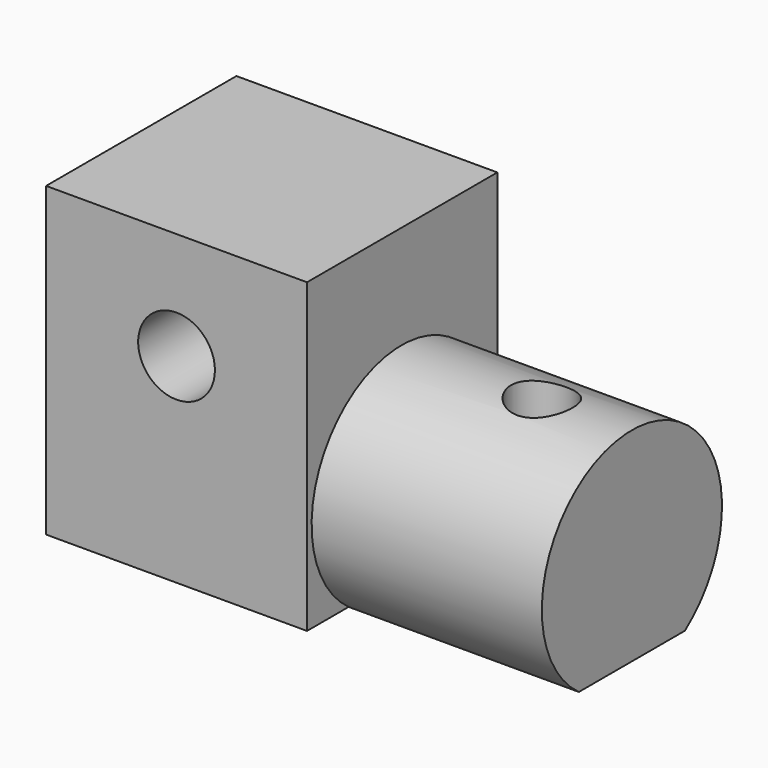
from build123d import *

# Parameters (mm, degrees)
F0_W     = 53.975
F0_H     = 63.5
F0_R     = 7.9375
F1_DEPTH = 49.2125
F3_DEPTH = 47.625
F5_D     = 12.7
F5_DEPTH = 50.8


with BuildPart() as f1:
    # F0 (on Front) → F1 (new body)
    with BuildSketch(Plane.XZ):
        Rectangle(F0_W, F0_H)
        with Locations((0, 9.525)):
            Circle(F0_R, mode=Mode.SUBTRACT)
    extrude(amount=F1_DEPTH)


with BuildPart() as f3:
    # F2 (on face) → F3 (new body)
    with BuildSketch(Plane.YZ.offset(26.9875)):
        with BuildLine():
            Line((-38.446363, -31.75), (-11.014364, -31.75))
            ThreePointArc((-11.014364, -31.75), (-24.730363, 10.366501), (-38.446363, -31.75))
        make_face()
        with BuildLine():
            Line((-38.446363, -31.75), (-11.014364, -31.75))
            ThreePointArc((-11.014364, -31.75), (-24.730363, 10.366501), (-38.446363, -31.75))
        make_face()
    extrude(amount=F3_DEPTH)

    # F5
    with Locations(Plane(origin=(0, 0, -31.75), x_dir=(1, 0, 0), z_dir=(0, 0, -1))):
        with Locations((55.903092, 24.626456)):
            Hole(F5_D / 2, depth=F5_DEPTH)


solid = Compound([f1.part, f3.part])
